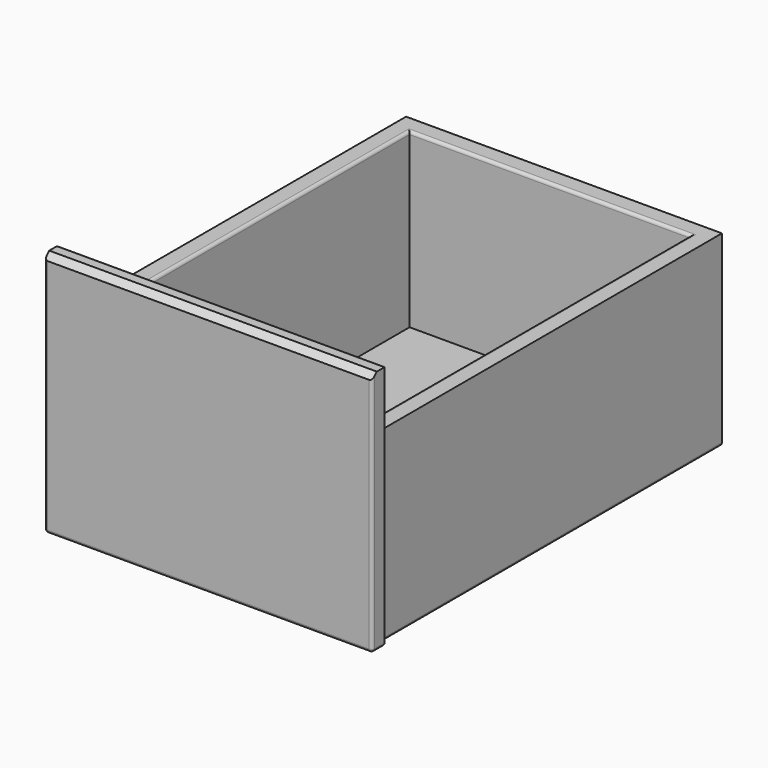
from build123d import *

# Parameters (mm, degrees)
F1_DEPTH = 203.2
F2_W     = 355.6
F2_H     = 19.05
F3_DEPTH = 266.7
F4_SIZE  = 6.35
F5_R     = 3.175
F6_W     = 304.8
F6_H     = 444.5
F7_DEPTH = 15.875
F8_DEPTH = 12.7


with BuildPart() as f1:
    # F0 (on Top) → F1 (new body)
    with BuildSketch(Plane.XY):
        Polygon((0, 463.55), (0, 0), (19.05, 0), (19.05, 444.5), (323.85, 444.5), (323.85, 0), (342.9, 0), (342.9, 463.55), align=None)
    extrude(amount=F1_DEPTH)

    # F2 (on Top) → F3 (join)
    with BuildSketch(Plane.XY):
        with Locations((171.45, -9.525)):
            Rectangle(F2_W, F2_H)
    extrude(amount=F3_DEPTH)

    # F4
    f4_edges = [f1.edges().sort_by_distance(p)[0] for p in [
        (171.45, -19.05, 266.7),
    ]]
    chamfer(f4_edges, length=F4_SIZE)

    # F5
    f5_edges = [f1.edges().sort_by_distance(p)[0] for p in [
        (-6.35, -19.05, 130.175),
        (-6.35, 0, 133.35),
        (171.45, 0, 0),
        (171.45, -19.05, 0),
        (0, 231.775, 0),
        (19.05, 222.25, 0),
        (171.45, 463.55, 0),
        (171.45, 444.5, 0),
        (323.85, 222.25, 0),
        (342.9, 231.775, 0),
        (349.25, 0, 133.35),
        (349.25, -19.05, 130.175),
        (19.05, 222.25, 203.2),
        (171.45, 444.5, 203.2),
        (323.85, 222.25, 203.2),
        (-6.35, -9.525, 0),
        (349.25, -9.525, 0),
        (346.075, 0, 0),
        (-3.175, 0, 0),
        (171.45, 0, 266.7),
    ]]
    fillet(f5_edges, radius=F5_R)

    # F6 (on Top) → F7 (join)
    with BuildSketch(Plane.XY):
        with Locations((171.45, 222.25)):
            Rectangle(F6_W, F6_H)
    extrude(amount=F7_DEPTH)

    # F6 (on Top) → F8 (cut)
    with BuildSketch(Plane.XY):
        with Locations((171.45, 222.25)):
            Rectangle(F6_W, F6_H)
    extrude(amount=F8_DEPTH, mode=Mode.SUBTRACT)


solid = f1.part
